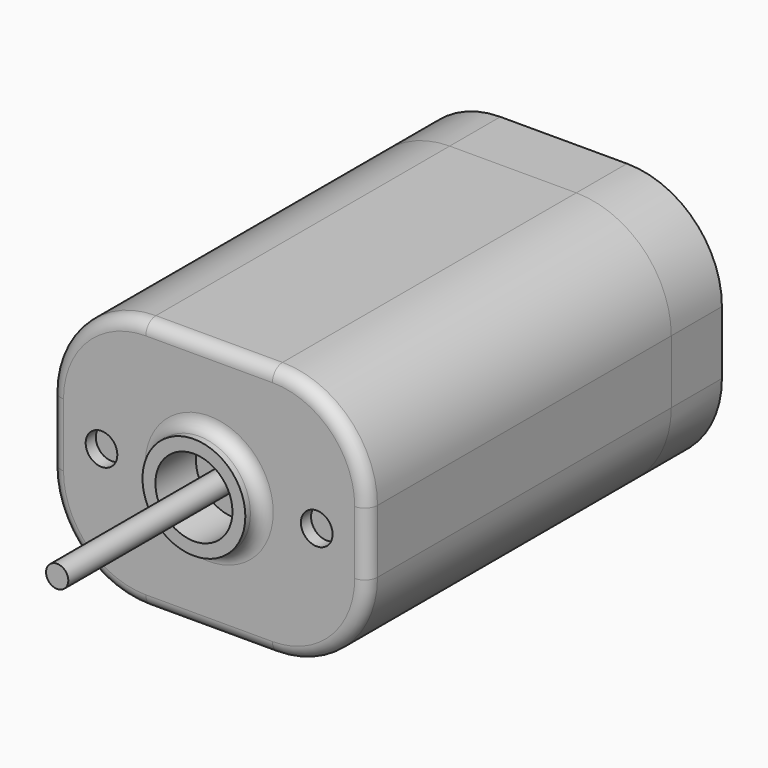
from build123d import *

# Parameters (mm, degrees)
F0_W     = 12.7
F0_H     = 10.16
F1_DEPTH = 15.24
F2_R     = 3.81
F3_R     = 1.5454546585
F3_R_2   = 0.4462657604
F4_DEPTH = 1.27
F3_R_3   = 2.0630546014
F5_DEPTH = 0.762
F6_DEPTH = 7.62
F7_R     = 0.508
F3_R_4   = 0.635
F8_DEPTH = 0.508
F9_DEPTH = 2.54


with BuildPart() as f1:
    # F0 (on Front) → F1 (new body)
    with BuildSketch(Plane.XZ):
        with Locations((6.35, 5.08)):
            Rectangle(F0_W, F0_H)
    extrude(amount=F1_DEPTH)

    # F2
    f2_edges = [f1.edges().sort_by_distance(p)[0] for p in [
        (0, -7.62, 10.16),
        (12.7, -7.62, 10.16),
        (0, -7.62, 0),
        (12.7, -7.62, 0),
    ]]
    fillet(f2_edges, radius=F2_R)

    # F3 (on face) → F4 (cut)
    with BuildSketch(Plane.XZ.offset(15.24)):
        with Locations((6.35, 5.08)):
            Circle(F3_R)
        with Locations((6.35, 5.08)):
            Circle(F3_R_2, mode=Mode.SUBTRACT)
    extrude(amount=-F4_DEPTH, mode=Mode.SUBTRACT)

    # F3 (on face) → F5 (join)
    with BuildSketch(Plane.XZ.offset(15.24)):
        with Locations((6.35, 5.08)):
            Circle(F3_R_3)
        with Locations((6.35, 5.08)):
            Circle(F3_R, mode=Mode.SUBTRACT)
    extrude(amount=F5_DEPTH)

    # F6 (add): a face of the model
    f6_faces = [f1.faces().sort_by_distance(p)[0] for p in [
        (6.35, -15.24, 5.08),
    ]]
    extrude(f6_faces, amount=F6_DEPTH)

    # F7
    f7_edges = [f1.edges().sort_by_distance(p)[0] for p in [
        (0, -15.24, 5.08),
        (1.115923, -15.24, 9.044077),
        (1.115923, -15.24, 1.115923),
        (6.35, -15.24, 10.16),
        (6.35, -15.24, 0),
        (11.584077, -15.24, 9.044077),
        (11.584077, -15.24, 1.115923),
        (12.7, -15.24, 5.08),
        (4.286945, -15.24, 5.08),
    ]]
    fillet(f7_edges, radius=F7_R)

    # F3 (on face) → F8 (cut)
    with BuildSketch(Plane.XZ.offset(15.24)):
        with Locations((2.032, 5.08)):
            Circle(F3_R_4)
        with Locations((10.668, 5.08)):
            Circle(F3_R_4)
    extrude(amount=-F8_DEPTH, mode=Mode.SUBTRACT)


with BuildPart() as f9:
    # F9 (new): a face of the model
    f9_faces = [f1.part.faces().sort_by_distance(p)[0] for p in [
        (6.35, 0, 5.08),
    ]]
    extrude(f9_faces, amount=F9_DEPTH)


solid = Compound([f1.part, f9.part])
